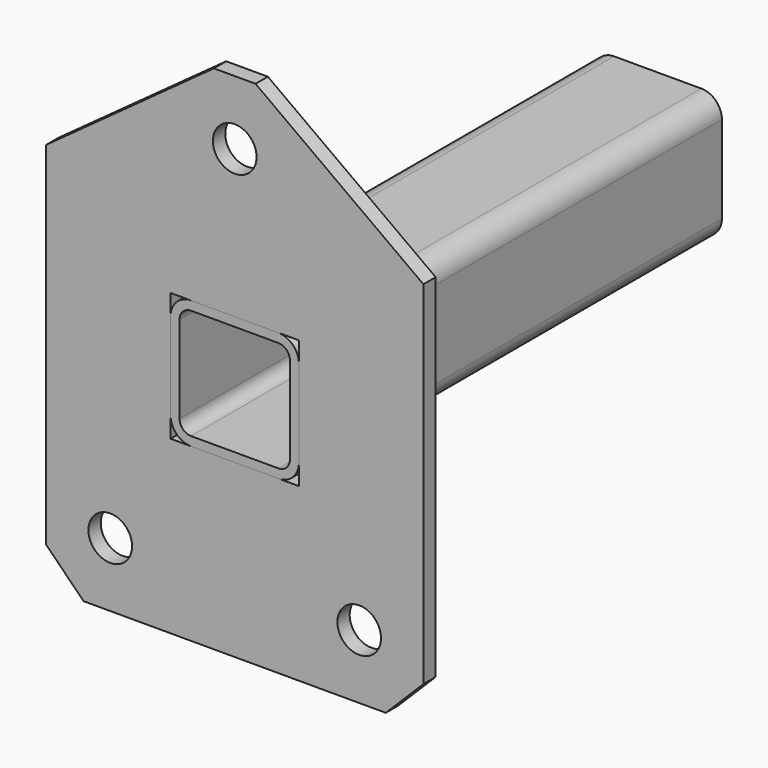
from build123d import *

# Parameters (mm, degrees)
F0_R          = 8.5
F0_W          = 50
F0_H          = 50
F1_DEPTH      = 6
F3_DEPTH      = 6
F3_DEPTH_BACK = 200


with BuildPart() as f1:
    # F0 (on Front) → F1 (new body)
    with BuildSketch(Plane.XZ):
        Polygon((8.122992, 107.5), (0, 107.5), (-8.122992, 107.5), (-73.492283, 60.00643), (-73.492283, -77.099241), (-58.847622, -91.743902), (0, -91.743902), (58.847622, -91.743902), (73.492283, -77.099241), (73.492283, 60.00643), align=None)
        with Locations((-48.492283, -66.743902)):
            Circle(F0_R, mode=Mode.SUBTRACT)
        with Locations((48.492283, -66.743902)):
            Circle(F0_R, mode=Mode.SUBTRACT)
        Rectangle(F0_W, F0_H, mode=Mode.SUBTRACT)
        with Locations((0, 82.5)):
            Circle(F0_R, mode=Mode.SUBTRACT)
    extrude(amount=F1_DEPTH)


with BuildPart() as f3:
    # F2 (on Front) → F3 (new body, two sides)
    with BuildSketch(Plane.XZ) as f3_sk:
        with BuildLine():
            Line((17, 25), (-17, 25))
            ThreePointArc((-17, 25), (-22.656854, 22.656854), (-25, 17))
            Line((-25, 17), (-25, -17))
            ThreePointArc((-25, -17), (-22.656854, -22.656854), (-17, -25))
            Line((-17, -25), (17, -25))
            ThreePointArc((17, -25), (22.656854, -22.656854), (25, -17))
            Line((25, -17), (25, 17))
            ThreePointArc((25, 17), (22.656854, 22.656854), (17, 25))
        make_face()
        with BuildLine():
            ThreePointArc((-21.5, 17), (-20.181981, 20.181981), (-17, 21.5))
            Line((-17, 21.5), (17, 21.5))
            ThreePointArc((17, 21.5), (20.181981, 20.181981), (21.5, 17))
            Line((21.5, 17), (21.5, -17))
            ThreePointArc((21.5, -17), (20.181981, -20.181981), (17, -21.5))
            Line((17, -21.5), (-17, -21.5))
            ThreePointArc((-17, -21.5), (-20.181981, -20.181981), (-21.5, -17))
            Line((-21.5, -17), (-21.5, 17))
        make_face(mode=Mode.SUBTRACT)
    extrude(amount=F3_DEPTH)
    extrude(f3_sk.sketch, amount=-F3_DEPTH_BACK)


solid = Compound([f1.part, f3.part])
